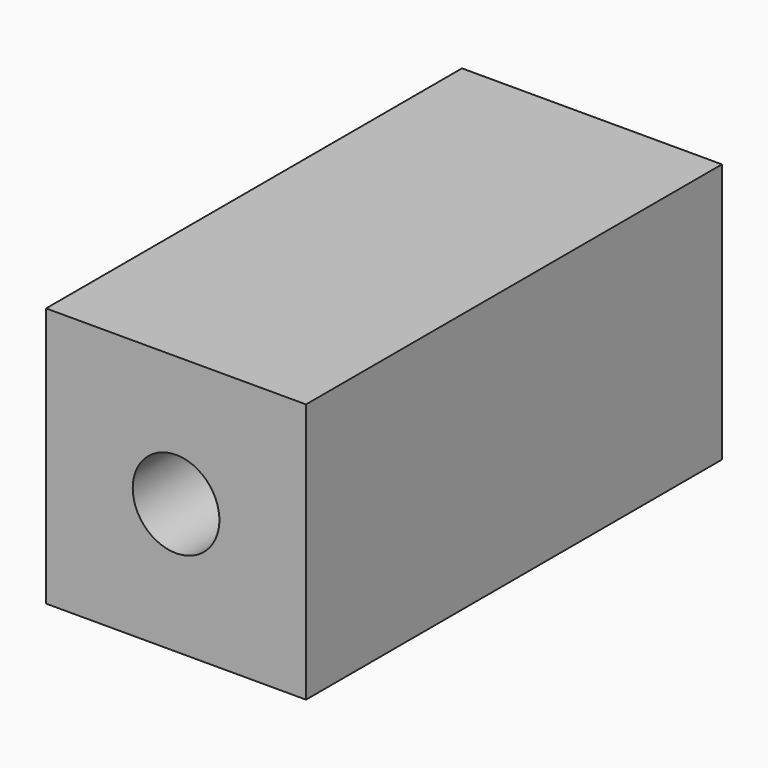
from build123d import *

# Parameters (mm, degrees)
F0_W     = 38.1
F0_H     = 38.1
F1_DEPTH = 76.2
F3_D     = 12.7


with BuildPart() as f1:
    # F0 (on Front) → F1 (new body)
    with BuildSketch(Plane.XZ):
        Rectangle(F0_W, F0_H)
    extrude(amount=F1_DEPTH)

    # F3 (through all)
    with Locations(Plane.XZ.offset(76.2)):
        with Locations((0, 0)):
            Hole(F3_D / 2)


solid = f1.part
